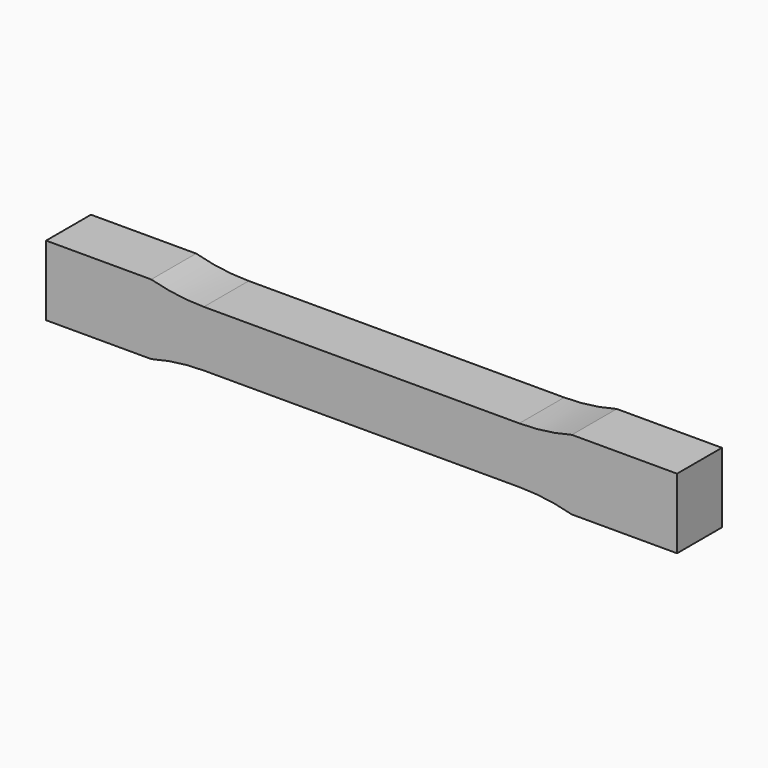
from build123d import *

# Parameters (mm, degrees)
F1_DEPTH = 20


with BuildPart() as f1:
    # F0 (on Front) → F1 (new body, symmetric)
    with BuildSketch(Plane.XZ):
        with BuildLine():
            ThreePointArc((150, 25), (131.415932, 21.255507), (112.5, 20))
            Line((112.5, 20), (0, 20))
            Line((0, 20), (-112.5, 20))
            ThreePointArc((-112.5, 20), (-131.415932, 21.255507), (-150, 25))
            Line((-150, 25), (-225, 25))
            Line((-225, 25), (-225, 0))
            Line((-225, 0), (-225, -25))
            Line((-225, -25), (-150, -25))
            ThreePointArc((-150, -25), (-131.415932, -21.255507), (-112.5, -20))
            Line((-112.5, -20), (0, -20))
            Line((0, -20), (112.5, -20))
            ThreePointArc((112.5, -20), (131.415932, -21.255507), (150, -25))
            Line((150, -25), (225, -25))
            Line((225, -25), (225, 0))
            Line((225, 0), (225, 25))
            Line((225, 25), (150, 25))
        make_face()
    extrude(amount=F1_DEPTH, both=True)


solid = f1.part
